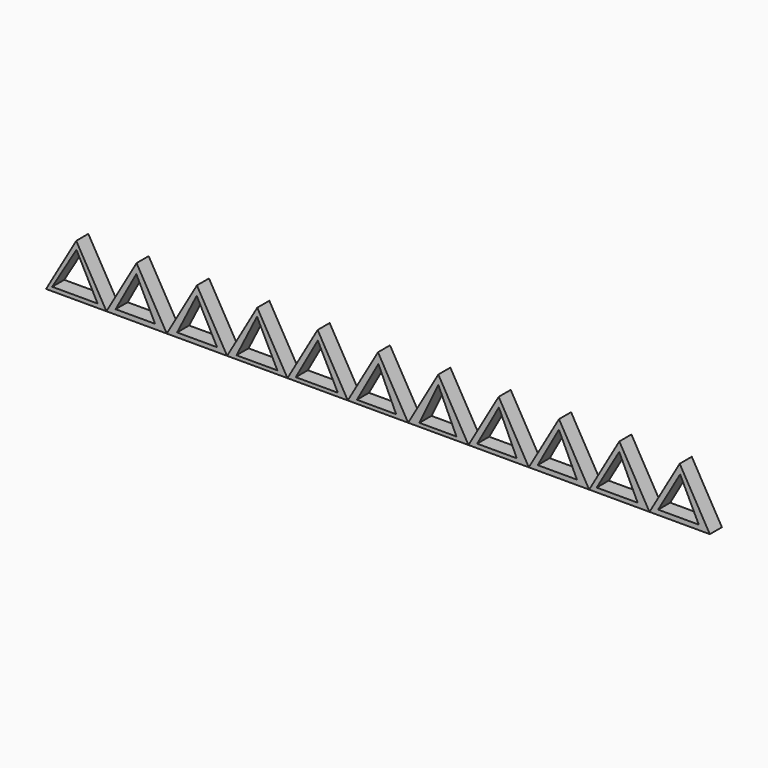
from build123d import *

# Parameters (mm, degrees)
F1_DEPTH = 12.7
F3_DEPTH = 12.7
F5_DEPTH = 12.7


with BuildPart() as f1:
    # F0 (on Front) → F1 (new body)
    with BuildSketch(Plane.XZ):
        Polygon((-241.883262, 0), (-267.283262, -43.994091), (-216.483262, -43.994091), align=None)
        Polygon((266.116738, 0), (240.716738, -43.994091), (291.516738, -43.994091), align=None)
        Polygon((215.316738, 0), (189.916738, -43.994091), (240.716738, -43.994091), align=None)
        Polygon((164.516738, 0), (139.116738, -43.994091), (189.916738, -43.994091), align=None)
        Polygon((113.716738, 0), (88.316738, -43.994091), (139.116738, -43.994091), align=None)
        Polygon((62.916738, 0), (37.516738, -43.994091), (88.316738, -43.994091), align=None)
        Polygon((12.116738, 0), (-13.283262, -43.994091), (37.516738, -43.994091), align=None)
        Polygon((-38.683262, 0), (-64.083262, -43.994091), (-13.283262, -43.994091), align=None)
        Polygon((-89.483262, 0), (-114.883262, -43.994091), (-64.083262, -43.994091), align=None)
        Polygon((-140.283262, 0), (-165.683262, -43.994091), (-114.883262, -43.994091), align=None)
        Polygon((-191.083262, 0), (-216.483262, -43.994091), (-165.683262, -43.994091), align=None)
    extrude(amount=F1_DEPTH)

    # F2 (on Front) → F3 (cut)
    with BuildSketch(Plane.XZ):
        Polygon((-223.923534, -40.677357), (-241.702169, -6.571393), (-262.141556, -40.677357), align=None)
    extrude(amount=F3_DEPTH, mode=Mode.SUBTRACT)

    # F4 (on Front) → F5 (cut)
    with BuildSketch(Plane.XZ):
        Polygon((-175.534889, -39.949007), (-191.340759, -8.175986), (-208.759472, -39.949007), align=None)
        Polygon((-123.346582, -40.334888), (-140.488886, -7.735887), (-156.98719, -40.334888), align=None)
        Polygon((-72.567524, -40.986173), (-89.708172, -6.704872), (-106.977701, -40.986173), align=None)
        Polygon((-21.661077, -40.986173), (-38.541994, -7.735887), (-57.062074, -40.986173), align=None)
        Polygon((27.406325, -40.986173), (12.483668, -8.515121), (-5.602386, -40.986173), align=None)
        Polygon((78.176022, -40.986173), (62.950893, -7.735887), (47.008931, -40.986173), align=None)
        Polygon((128.970012, -40.617937), (113.917604, -7.735887), (95.602627, -40.617937), align=None)
        Polygon((179.613307, -39.949007), (164.437413, -7.735887), (146.550015, -39.949007), align=None)
        Polygon((230.740458, -40.432863), (215.201312, -7.735887), (196.225598, -40.432863), align=None)
        Polygon((282.190174, -39.949007), (266.488305, -7.735887), (247.997895, -39.949007), align=None)
    extrude(amount=F5_DEPTH, mode=Mode.SUBTRACT)


solid = f1.part
